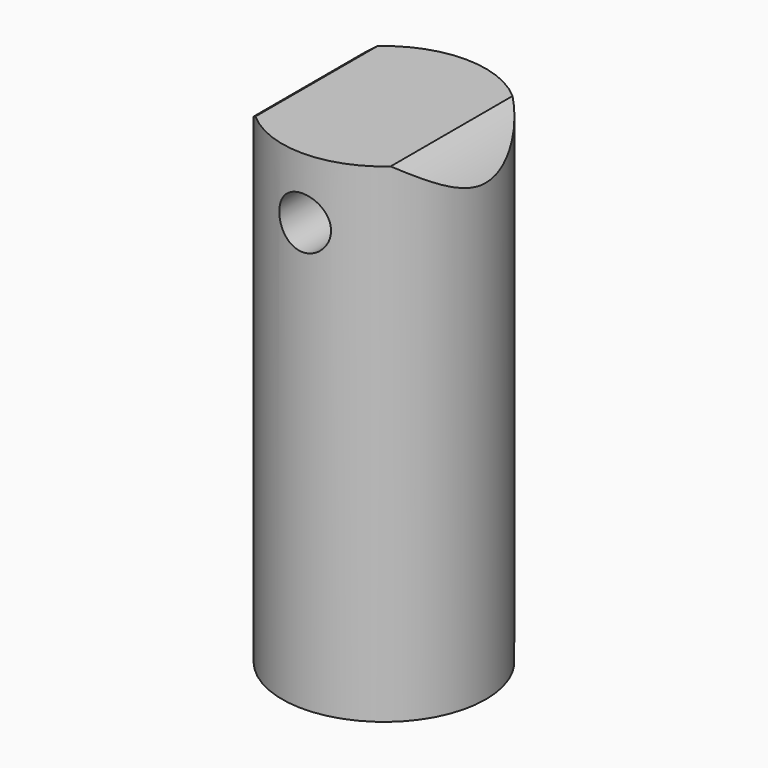
from build123d import *

# Parameters (mm, degrees)
F0_R          = 25
F0_R_2        = 2.5
F1_DEPTH      = 120
F2_DEPTH      = 30
F3_SIZE       = 2.5
F4_R          = 6.35
F5_DEPTH      = 25.001
F5_DEPTH_BACK = 25


with BuildPart() as f1:
    # F0 (on Top) → F1 (new body)
    with BuildSketch(Plane.XY):
        Circle(F0_R)
        Circle(F0_R_2, mode=Mode.SUBTRACT)
        Circle(F0_R_2)
    extrude(amount=F1_DEPTH)

    # F0 (on Top) → F2 (cut)
    with BuildSketch(Plane.XY):
        Circle(F0_R_2)
    extrude(amount=F2_DEPTH, mode=Mode.SUBTRACT)

    # F3
    f3_edges = [f1.edges().sort_by_distance(p)[0] for p in [
        (-2.5, 0, 30),
    ]]
    chamfer(f3_edges, length=F3_SIZE)

    # F4 (on Front) → F5 (cut, two sides)
    with BuildSketch(Plane.XZ) as f5_sk:
        with Locations((0, 105)):
            Circle(F4_R)
        with BuildLine():
            ThreePointArc((-30, 95), (0, 125), (30, 95))
            Line((30, 95), (51.988307, 95))
            Line((51.988307, 95), (51.988307, 154.9235))
            Line((51.988307, 154.9235), (-49.441047, 154.9235))
            Line((-49.441047, 154.9235), (-49.441047, 95))
            Line((-49.441047, 95), (-30, 95))
        make_face()
    extrude(amount=F5_DEPTH, mode=Mode.SUBTRACT)
    extrude(f5_sk.sketch, amount=-F5_DEPTH_BACK, mode=Mode.SUBTRACT)


solid = f1.part
